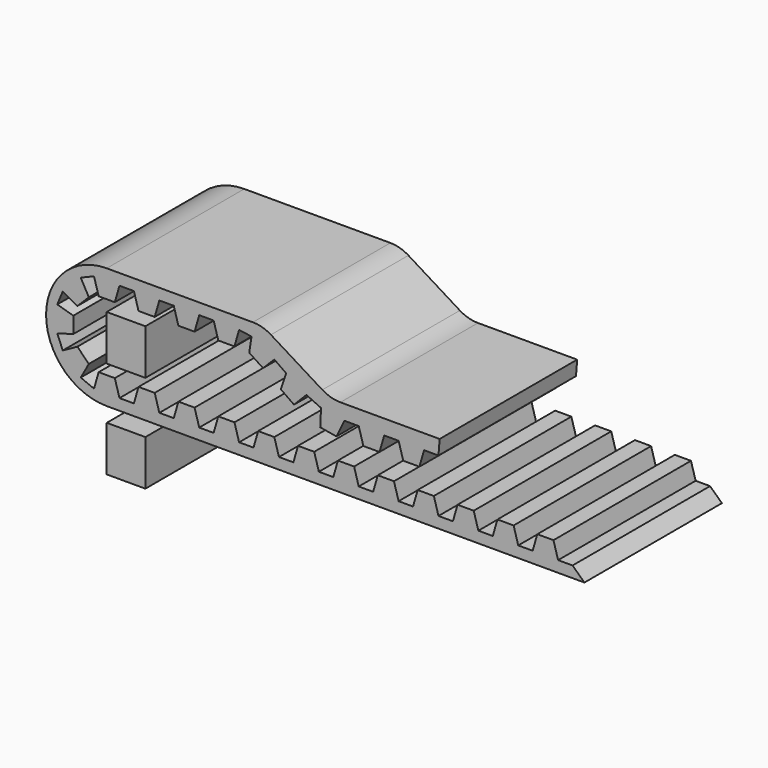
from build123d import *

# Parameters (mm, degrees)
F0_W     = 5.621214
F0_H     = 6.609323
F1_DEPTH = 25


with BuildPart() as f1:
    # F0 (on Front) → F1 (new body)
    with BuildSketch(Plane.XZ):
        with Locations((0, 8.744186)):
            Rectangle(F0_W, F0_H)
        with Locations((0, -5.44419)):
            Rectangle(F0_W, F0_H)
        with BuildLine():
            Line((18.44262, 17.644169), (-2.810607, 17.644169))
            ThreePointArc((-2.810607, 17.644169), (-11.632691, 8.822084), (-2.810607, 0))
            Line((-2.810607, 0), (66.665268, 0))
            Line((66.665268, 0), (64.938686, 1.625811))
            Line((64.938686, 1.625811), (62.8401, 1.625811))
            Line((62.8401, 1.625811), (62.165848, 3.962677))
            Line((62.165848, 3.962677), (59.812938, 3.962677))
            Line((59.812938, 3.962677), (59.138686, 1.625811))
            Line((59.138686, 1.625811), (57.0401, 1.625811))
            Line((57.0401, 1.625811), (56.365848, 3.962677))
            Line((56.365848, 3.962677), (54.012938, 3.962677))
            Line((54.012938, 3.962677), (53.338686, 1.625811))
            Line((53.338686, 1.625811), (51.2401, 1.625811))
            Line((51.2401, 1.625811), (50.565848, 3.962677))
            Line((50.565848, 3.962677), (48.212938, 3.962677))
            Line((48.212938, 3.962677), (47.538686, 1.625811))
            Line((47.538686, 1.625811), (45.4401, 1.625811))
            Line((45.4401, 1.625811), (44.765848, 3.962677))
            Line((44.765848, 3.962677), (42.412938, 3.962677))
            Line((42.412938, 3.962677), (41.738686, 1.625811))
            Line((41.738686, 1.625811), (39.6401, 1.625811))
            Line((39.6401, 1.625811), (38.965848, 3.962677))
            Line((38.965848, 3.962677), (36.612938, 3.962677))
            Line((36.612938, 3.962677), (35.938686, 1.625811))
            Line((35.938686, 1.625811), (33.8401, 1.625811))
            Line((33.8401, 1.625811), (33.165848, 3.962677))
            Line((33.165848, 3.962677), (30.812938, 3.962677))
            Line((30.812938, 3.962677), (30.138686, 1.625811))
            Line((30.138686, 1.625811), (28.0401, 1.625811))
            Line((28.0401, 1.625811), (27.365848, 3.962677))
            Line((27.365848, 3.962677), (25.012938, 3.962677))
            Line((25.012938, 3.962677), (24.338686, 1.625811))
            Line((24.338686, 1.625811), (22.2401, 1.625811))
            Line((22.2401, 1.625811), (21.565848, 3.962677))
            Line((21.565848, 3.962677), (19.212938, 3.962677))
            Line((19.212938, 3.962677), (18.538686, 1.625811))
            Line((18.538686, 1.625811), (16.4401, 1.625811))
            Line((16.4401, 1.625811), (15.765848, 3.962677))
            Line((15.765848, 3.962677), (13.412938, 3.962677))
            Line((13.412938, 3.962677), (12.738686, 1.625811))
            Line((12.738686, 1.625811), (10.6401, 1.625811))
            Line((10.6401, 1.625811), (9.965848, 3.962677))
            Line((9.965848, 3.962677), (7.612938, 3.962677))
            Line((7.612938, 3.962677), (6.938686, 1.625811))
            Line((6.938686, 1.625811), (4.8401, 1.625811))
            Line((4.8401, 1.625811), (4.165848, 3.962677))
            Line((4.165848, 3.962677), (1.812938, 3.962677))
            Line((1.812938, 3.962677), (1.138686, 1.625811))
            Line((1.138686, 1.625811), (-0.9599, 1.625811))
            Line((-0.9599, 1.625811), (-1.634152, 3.962677))
            Line((-1.634152, 3.962677), (-3.987062, 3.962677))
            Line((-3.987062, 3.962677), (-4.661314, 1.625811))
            Line((-4.661314, 1.625811), (-6.590493, 2.424903))
            Line((-6.590493, 2.424903), (-5.414847, 4.554085))
            Line((-5.414847, 4.554085), (-7.078606, 6.217844))
            Line((-7.078606, 6.217844), (-9.207789, 5.042198))
            Line((-9.207789, 5.042198), (-10.006881, 6.971377))
            Line((-10.006881, 6.971377), (-7.670014, 7.645629))
            Line((-7.670014, 7.645629), (-7.670014, 9.998539))
            Line((-7.670014, 9.998539), (-10.006881, 10.672791))
            Line((-10.006881, 10.672791), (-9.207789, 12.601971))
            Line((-9.207789, 12.601971), (-7.078606, 11.426324))
            Line((-7.078606, 11.426324), (-5.414847, 13.090083))
            Line((-5.414847, 13.090083), (-6.590493, 15.219266))
            Line((-6.590493, 15.219266), (-4.661314, 16.018358))
            Line((-4.661314, 16.018358), (-3.987062, 13.681491))
            Line((-3.987062, 13.681491), (-1.634152, 13.681491))
            Line((-1.634152, 13.681491), (-0.9599, 16.018358))
            Line((-0.9599, 16.018358), (1.138686, 16.018358))
            Line((1.138686, 16.018358), (1.812938, 13.681491))
            Line((1.812938, 13.681491), (4.165848, 13.681491))
            Line((4.165848, 13.681491), (4.8401, 16.018358))
            Line((4.8401, 16.018358), (6.938686, 16.018358))
            Line((6.938686, 16.018358), (7.612938, 13.681491))
            Line((7.612938, 13.681491), (9.965848, 13.681491))
            Line((9.965848, 13.681491), (10.6401, 16.018358))
            Line((10.6401, 16.018358), (12.738686, 16.018358))
            Line((12.738686, 16.018358), (13.412938, 13.681491))
            Line((13.412938, 13.681491), (15.765848, 13.681491))
            Line((15.765848, 13.681491), (16.4401, 16.018358))
            Line((16.4401, 16.018358), (18.254328, 15.759064))
            Line((18.254328, 15.759064), (17.909963, 13.578082))
            Line((17.909963, 13.578082), (19.918763, 12.258014))
            Line((19.918763, 12.258014), (21.570707, 13.895314))
            Line((21.570707, 13.895314), (23.289767, 12.691615))
            Line((23.289767, 12.691615), (22.501711, 10.39063))
            Line((22.501711, 10.39063), (24.429102, 9.041057))
            Line((24.429102, 9.041057), (26.232135, 10.880549))
            Line((26.232135, 10.880549), (28.355726, 9.904847))
            Line((28.355726, 9.904847), (28.240936, 7.379497))
            Line((28.240936, 7.379497), (30.594104, 6.977737))
            Line((30.594104, 6.977737), (31.742264, 9.364871))
            Line((31.742264, 9.364871), (33.840849, 9.364871))
            Line((33.840849, 9.364871), (34.515101, 7.028005))
            Line((34.515101, 7.028005), (36.868012, 7.028005))
            Line((36.868012, 7.028005), (37.542264, 9.364871))
            Line((37.542264, 9.364871), (39.640849, 9.364871))
            Line((39.640849, 9.364871), (40.315101, 7.028005))
            Line((40.315101, 7.028005), (42.668012, 7.028005))
            Line((42.668012, 7.028005), (43.342264, 9.364871))
            Line((43.342264, 9.364871), (45.440849, 9.364871))
            Line((45.440849, 9.364871), (45.60869, 11.536179))
            Line((45.60869, 11.536179), (31.176531, 11.536179))
            ThreePointArc((31.176531, 11.536179), (29.811663, 11.726071), (28.550467, 12.281324))
            Line((28.550467, 12.281324), (21.068683, 16.899023))
            ThreePointArc((21.068683, 16.899023), (19.807487, 17.454276), (18.44262, 17.644169))
        make_face()
    extrude(amount=F1_DEPTH)


solid = f1.part
